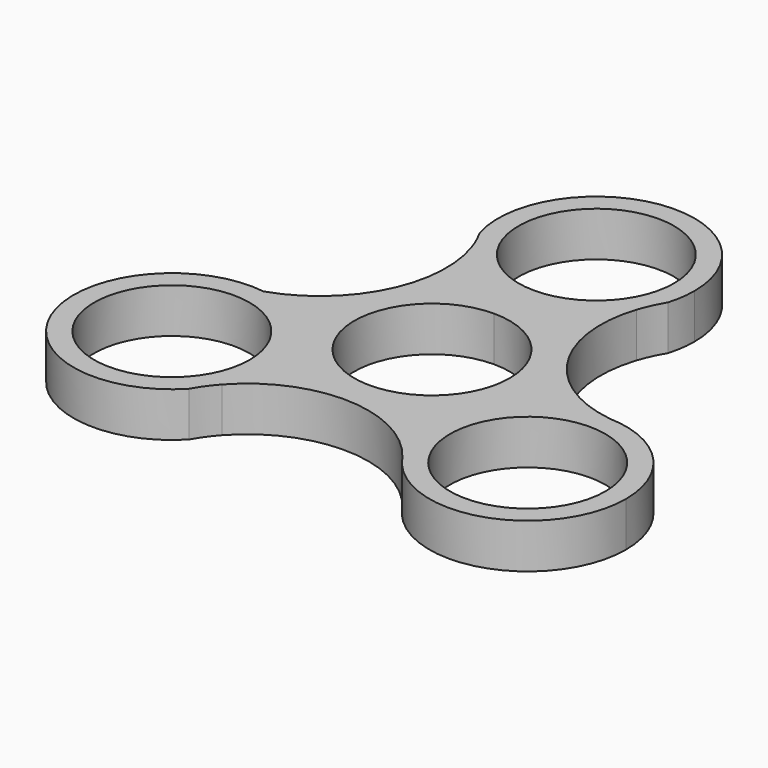
from build123d import *

# Parameters (mm, degrees)
F1_DEPTH = 6.35
F0_R     = 11.049
F2_DEPTH = 6.35
F3_DEPTH = 6.35
F4_DEPTH = 6.35
F5_DEPTH = 6.35


with BuildPart() as f1:
    # F0 (on Top) → F1 (new body)
    with BuildSketch(Plane.XY):
        with BuildLine():
            ThreePointArc((11.760597, 21.670156), (6.701838, 16.952502), (0, 15.24))
            ThreePointArc((0, 15.24), (-6.836853, 17.027293), (-11.924319, 21.931847))
            ThreePointArc((-11.924319, 21.931847), (-12.914458, 8.219461), (-23.310372, -0.77692))
            ThreePointArc((-23.310372, -0.77692), (-14.739412, -5.455867), (-11.326602, -14.605))
            ThreePointArc((-11.326602, -14.605), (-11.734078, -17.954455), (-12.932736, -21.108517))
            ThreePointArc((-12.932736, -21.108517), (0.641019, -15.443026), (13.646185, -22.313999))
            ThreePointArc((13.646185, -22.313999), (13.101766, -7.789805), (25.757442, -0.642603))
            ThreePointArc((25.757442, -0.642603), (13.520656, 7.227739), (11.760597, 21.670156))
        make_face()
        with BuildLine():
            ThreePointArc((13.97, 0), (-9.878282, -9.878282), (0, 13.97))
            ThreePointArc((0, 13.97), (9.878282, 9.878282), (13.97, 0))
        make_face(mode=Mode.SUBTRACT)
    extrude(amount=F1_DEPTH)

    # F0 (on Top) → F2 (join)
    with BuildSketch(Plane.XY):
        with BuildLine():
            ThreePointArc((-11.326602, -14.605), (-14.739412, -5.455867), (-23.310372, -0.77692))
            ThreePointArc((-23.310372, -0.77692), (-38.496664, -19.178757), (-15.180625, -24.239724))
            ThreePointArc((-15.180625, -24.239724), (-14.144468, -22.611098), (-12.932736, -21.108517))
            ThreePointArc((-12.932736, -21.108517), (-11.734078, -17.954455), (-11.326602, -14.605))
        make_face()
        with Locations((-25.296602, -14.605)):
            Circle(F0_R, mode=Mode.SUBTRACT)
    extrude(amount=F2_DEPTH)

    # F0 (on Top) → F3 (join)
    with BuildSketch(Plane.XY):
        with BuildLine():
            ThreePointArc((27.282832, -0.77692), (26.518634, -0.726829), (25.757442, -0.642603))
            ThreePointArc((25.757442, -0.642603), (13.101766, -7.789805), (13.646185, -22.313999))
            ThreePointArc((13.646185, -22.313999), (29.321808, -27.982541), (39.266602, -14.605))
            ThreePointArc((39.266602, -14.605), (35.853792, -5.455867), (27.282832, -0.77692))
        make_face()
        with Locations((25.296602, -14.605)):
            Circle(F0_R, mode=Mode.SUBTRACT)
    extrude(amount=F3_DEPTH)

    # F0 (on Top) → F4 (join)
    with BuildSketch(Plane.XY):
        with BuildLine():
            ThreePointArc((-11.924319, 21.931847), (-6.836853, 17.027293), (0, 15.24))
            ThreePointArc((0, 15.24), (6.701838, 16.952502), (11.760597, 21.670156))
            ThreePointArc((11.760597, 21.670156), (12.469752, 23.474968), (13.378501, 25.187983))
            ThreePointArc((13.378501, 25.187983), (13.821334, 27.177361), (13.97, 29.21))
            ThreePointArc((13.97, 29.21), (-2.032639, 43.031334), (-13.378501, 25.187983))
            ThreePointArc((-13.378501, 25.187983), (-12.57041, 23.59609), (-11.924319, 21.931847))
        make_face()
        with BuildLine():
            ThreePointArc((11.049, 29.21), (7.812823, 21.397177), (0, 18.161))
            ThreePointArc((0, 18.161), (-7.812823, 37.022823), (11.049, 29.21))
        make_face(mode=Mode.SUBTRACT)
    extrude(amount=F4_DEPTH)

    # F0 (on Top) → F5 (join)
    with BuildSketch(Plane.XY):
        with BuildLine():
            ThreePointArc((13.97, 0), (9.878282, 9.878282), (0, 13.97))
            ThreePointArc((0, 13.97), (-9.878282, -9.878282), (13.97, 0))
        make_face()
        with BuildLine():
            ThreePointArc((0, 11.049), (7.812823, 7.812823), (11.049, 0))
            ThreePointArc((11.049, 0), (-7.812823, -7.812823), (0, 11.049))
        make_face(mode=Mode.SUBTRACT)
    extrude(amount=F5_DEPTH)


solid = f1.part
